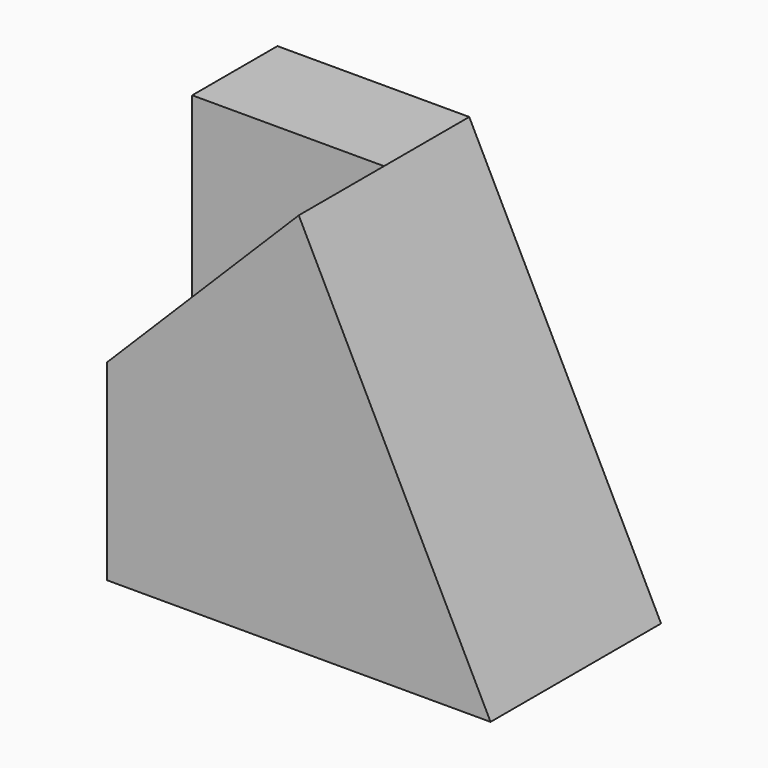
from build123d import *

# Parameters (mm, degrees)
F1_DEPTH = 20
F2_DEPTH = 10


with BuildPart() as f1:
    # F0 (on Front) → F1 (new body)
    with BuildSketch(Plane.XZ):
        Polygon((0, 18), (0, 0), (36, 0), (18, 36), align=None)
        Polygon((0, 36), (0, 18), (18, 36), align=None)
    extrude(amount=-F1_DEPTH)

    # F0 (on Front) → F2 (cut)
    with BuildSketch(Plane.XZ):
        Polygon((0, 36), (0, 18), (18, 36), align=None)
    extrude(amount=-F2_DEPTH, mode=Mode.SUBTRACT)


solid = f1.part
